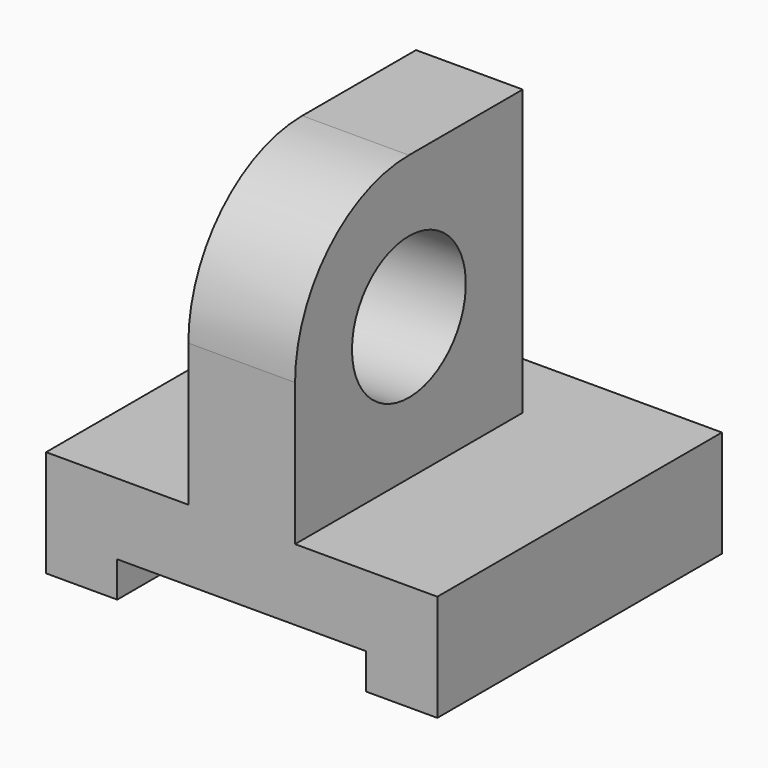
from build123d import *

# Parameters (mm, degrees)
F1_DEPTH = 50
F0_W     = 15
F0_H     = 40
F2_DEPTH = 40
F3_R     = 10
F4_DEPTH = 15
F5_DEPTH = 15


with BuildPart() as f1:
    # F0 (on Front) → F1 (new body)
    with BuildSketch(Plane.XZ):
        Polygon((0, 15), (0, 0), (10, 0), (10, 5), (45, 5), (45, 0), (55, 0), (55, 15), (35, 15), (20, 15), align=None)
    extrude(amount=-F1_DEPTH)

    # F0 (on Front) → F2 (join)
    with BuildSketch(Plane.XZ):
        with Locations((27.5, 35)):
            Rectangle(F0_W, F0_H)
    extrude(amount=-F2_DEPTH)

    # F3 (on face) → F4 (cut, through all)
    with BuildSketch(Plane(origin=(20, 0, 0), x_dir=(0, -1, 0), z_dir=(-1, 0, 0))):
        with Locations((-20, 35)):
            Circle(F3_R)
    extrude(amount=-F4_DEPTH, mode=Mode.SUBTRACT)

    # F3 (on face) → F5 (cut, through all)
    with BuildSketch(Plane(origin=(20, 0, 0), x_dir=(0, -1, 0), z_dir=(-1, 0, 0))):
        with BuildLine():
            ThreePointArc((-20, 55), (-5.857864, 49.142136), (0, 35))
            Line((0, 35), (0, 55))
            Line((0, 55), (-20, 55))
        make_face()
    extrude(amount=-F5_DEPTH, mode=Mode.SUBTRACT)


solid = f1.part
